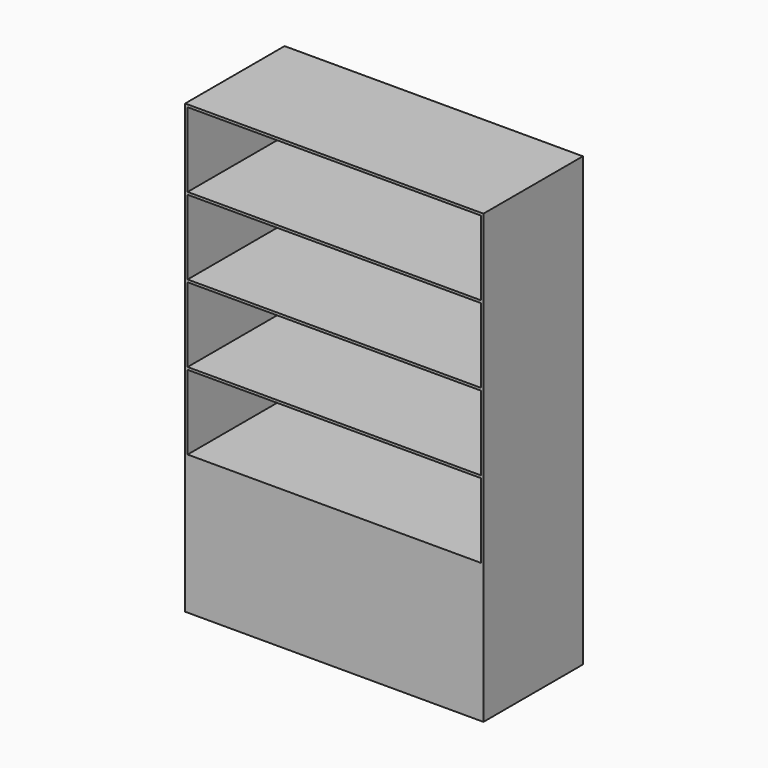
from build123d import *

# Parameters (mm, degrees)
F0_W     = 1200
F0_H     = 1800
F1_DEPTH = 500
F2_W     = 1180
F2_H     = 300
F3_DEPTH = 500


with BuildPart() as f1:
    # F0 (on Front) → F1 (new body)
    with BuildSketch(Plane.XZ):
        with Locations((-600, 900)):
            Rectangle(F0_W, F0_H)
    extrude(amount=F1_DEPTH)

    # F2 (on face) → F3 (cut, through all)
    with BuildSketch(Plane.XZ.offset(500)):
        with Locations((-600, 1640)):
            Rectangle(F2_W, F2_H)
        with Locations((-600, 1330)):
            Rectangle(F2_W, F2_H)
        with Locations((-600, 1020)):
            Rectangle(F2_W, F2_H)
        with Locations((-600, 710)):
            Rectangle(F2_W, F2_H)
    extrude(amount=-F3_DEPTH, mode=Mode.SUBTRACT)


solid = f1.part
